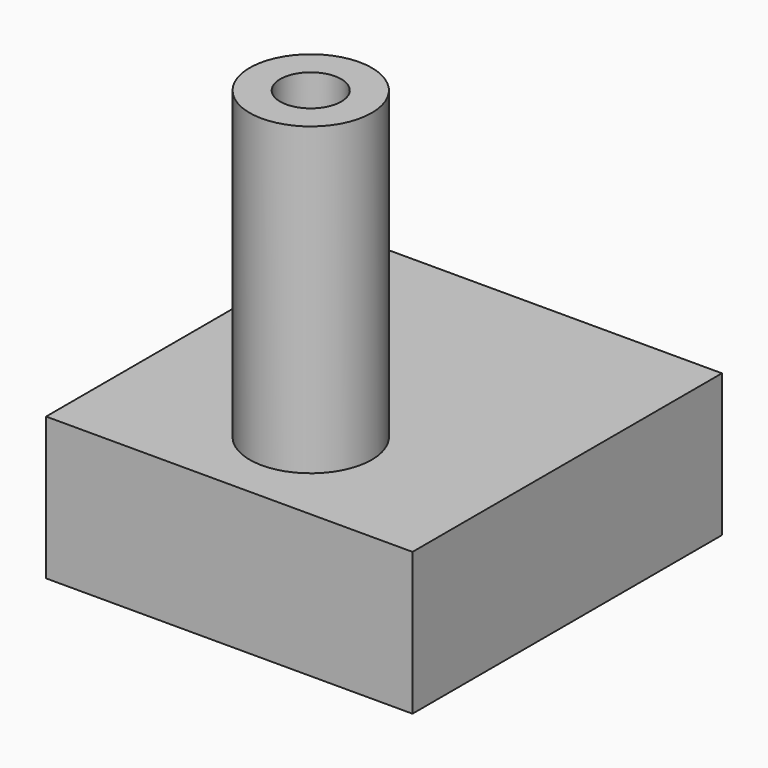
from build123d import *

# Parameters (mm, degrees)
CYLINDER001_R     = 1.5
CYLINDER001_DEPTH = 7
CYLINDER_R        = 3
CYLINDER_DEPTH    = 15
BOX001_W          = 12
BOX001_H          = 3
BOX001_DEPTH      = 5
BOX_W             = 18
BOX_H             = 19
BOX_DEPTH         = 7


with BuildPart() as cylinder001:
    # Cylinder001 → Cylinder001 (new body)
    with BuildSketch(Plane.XY.offset(8)):
        Circle(CYLINDER001_R)
    extrude(amount=CYLINDER001_DEPTH)


with BuildPart() as cut:
    # Cylinder → Cylinder (new body)
    with BuildSketch(Plane.XY):
        Circle(CYLINDER_R)
    extrude(amount=CYLINDER_DEPTH)

    # Cut: cut Cylinder001
    add(cylinder001.part, mode=Mode.SUBTRACT)


with BuildPart() as cut_1:
    # Cut placement: moved
    add(cut.part.moved(Location((9, 5, 7))))


with BuildPart() as cube001:
    # Box001 → Box001 (new body)
    with BuildSketch(Plane(origin=(3, 11, 0), x_dir=(1, 0, 0), z_dir=(0, 0, 1))):
        with Locations((6, 1.5)):
            Rectangle(BOX001_W, BOX001_H)
    extrude(amount=BOX001_DEPTH)


with BuildPart() as cut001:
    # Box → Box (new body)
    with BuildSketch(Plane.XY):
        with Locations((9, 9.5)):
            Rectangle(BOX_W, BOX_H)
    extrude(amount=BOX_DEPTH)

    # Cut001: cut Cube001
    add(cube001.part, mode=Mode.SUBTRACT)


solid = Compound([cut_1.part, cut001.part])
